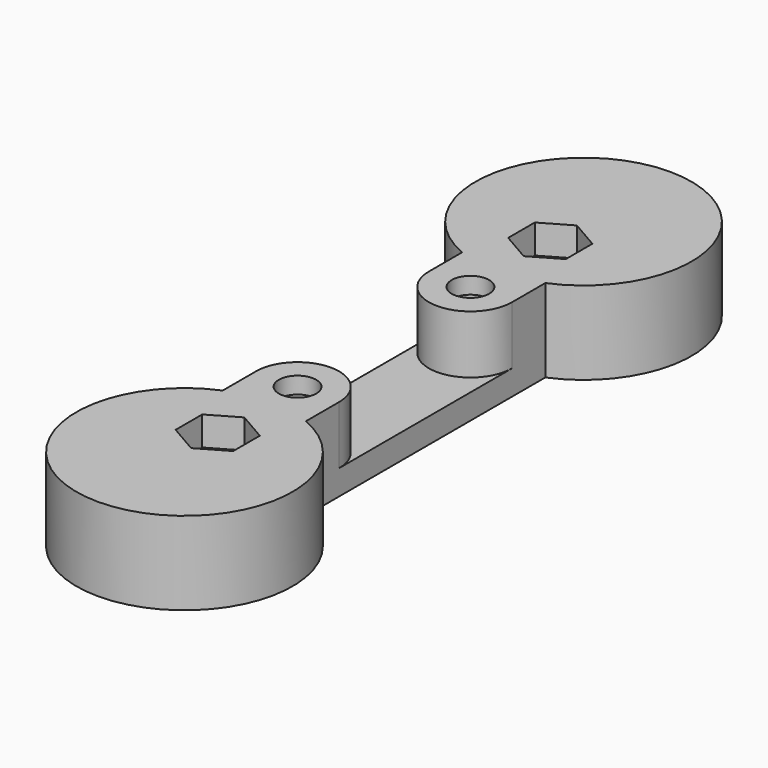
from build123d import *

# Parameters (mm, degrees)
SKETCH204_R             = 2.25
PAD094_DEPTH            = 10
POCKET084_DEPTH         = 7
POCKET085_DEPTH         = 3.5
SKETCH213_R             = 2.25
POCKET086_DEPTH         = 10
SKETCH214_R             = 3.75
POCKET087_DEPTH         = 8
BODY025_PLACEMENT_ANGLE = 180


with BuildPart() as part:
    # Sketch204 → Pad094 (new body)
    with BuildSketch(Plane.XY):
        with BuildLine():
            ThreePointArc((5, 18), (0, 43), (-5, 18))
            Line((-5, 18), (-5, -18))
            ThreePointArc((-5, -18), (0, -43), (5, -18))
            Line((5, 18), (5, -18))
        make_face()
        with Locations((0, 13)):
            Circle(SKETCH204_R, mode=Mode.SUBTRACT)
        with Locations((0, -13)):
            Circle(SKETCH204_R, mode=Mode.SUBTRACT)
    extrude(amount=PAD094_DEPTH)

    # Sketch211 → Pocket084 (cut)
    with BuildSketch(Plane.XY):
        with BuildLine():
            Line((-5, 13.000202), (-5, -12.999798))
            ThreePointArc((5, -12.999798), (0, -7.999799), (-5, -12.999798))
            Line((5, -12.999798), (5, 13.000202))
            ThreePointArc((-5, 13.000202), (0, 8.000186), (5, 13.000202))
        make_face()
    extrude(amount=POCKET084_DEPTH, mode=Mode.SUBTRACT)

    # Sketch212 → Pocket085 (cut, symmetric)
    with BuildSketch(Plane.XY):
        Polygon((0, -21), (-3.464102, -23), (-3.464102, -27), (0, -29), (3.464102, -27), (3.464102, -23), align=None)
        Polygon((0, 21), (3.464102, 23), (3.464102, 27), (0, 29), (-3.464102, 27), (-3.464102, 23), align=None)
    extrude(amount=POCKET085_DEPTH, both=True, mode=Mode.SUBTRACT)

    # Sketch213 → Pocket086 (cut)
    with BuildSketch(Plane.XY):
        with Locations((0, 25)):
            Circle(SKETCH213_R)
        with Locations((0, -25)):
            Circle(SKETCH213_R)
    extrude(amount=POCKET086_DEPTH, mode=Mode.SUBTRACT)

    # Sketch214 (on Face5 of Pocket086) → Pocket087 (cut)
    with BuildSketch(Plane.XY.offset(10)):
        with Locations((0, 13)):
            Circle(SKETCH214_R)
        with Locations((0, -13)):
            Circle(SKETCH214_R)
    extrude(amount=-POCKET087_DEPTH, mode=Mode.SUBTRACT)


with BuildPart() as part_1:
    # Body025 placement: moved
    add(part.part.moved(Location((0, 91, -15))).rotate(Axis((0, 91, -15), (0, 1, 0)), BODY025_PLACEMENT_ANGLE))


solid = part_1.part
